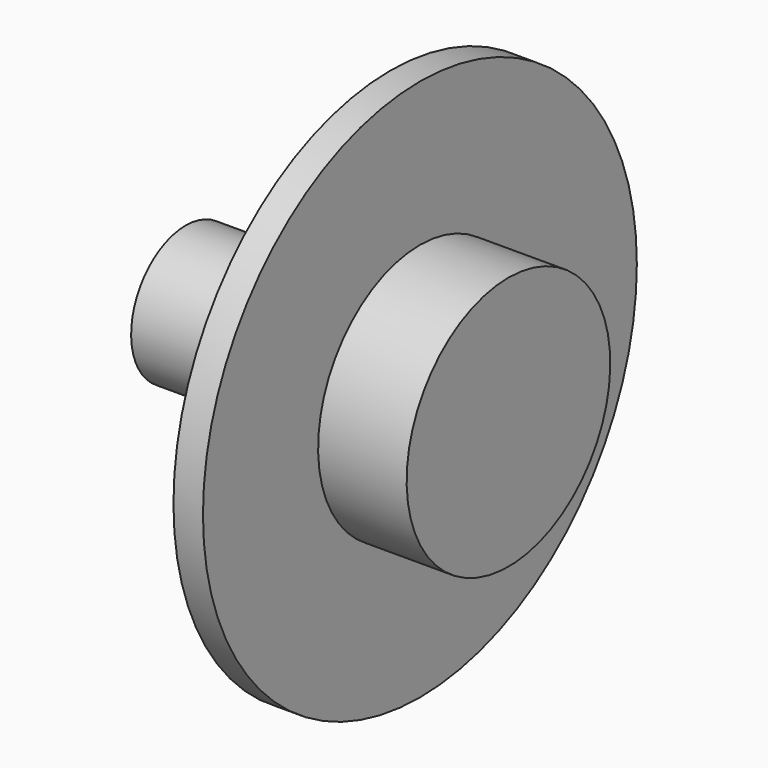
from build123d import *

# Parameters (mm, degrees)
F0_W   = 3.9116
F0_H   = 19.0754
F0_W_2 = 11.7348
F0_H_2 = 7.8232


with BuildPart() as f1:
    # F0 (on Front) → F1 (revolve)
    with BuildSketch(Plane.XZ):
        with Locations((-1.9558, 15.941218)):
            Rectangle(F0_W, F0_H)
        Polygon((-9.9822, 6.403518), (-9.9822, -1.419682), (0, -1.419682), (0, 6.403518), (-3.9116, 6.403518), align=None)
        with Locations((5.8674, 2.491918)):
            Rectangle(F0_W_2, F0_H_2)
        Polygon((-9.9822, -1.419682), (-31.0388, -1.419682), (-31.0388, -10.462082), (11.7348, -10.462082), (11.7348, -1.419682), (0, -1.419682), align=None)
    revolve(axis=Axis((-9.652, 0, -10.462082), (1, 0, 0)))


solid = f1.part
